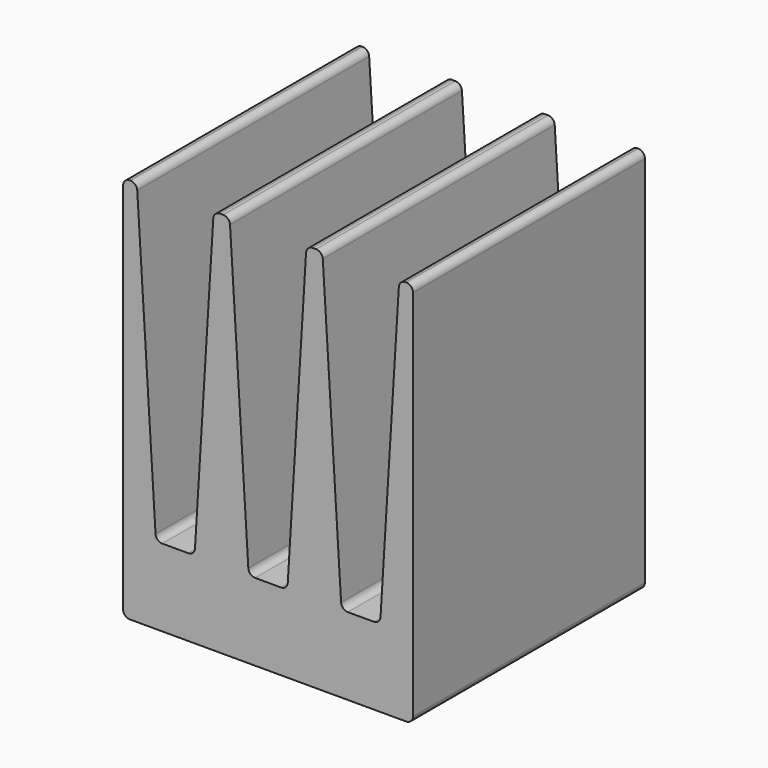
from build123d import *

# Parameters (mm, degrees)
SKETCH_W               = 7.5
SKETCH_H               = 7.5
PAD_DEPTH              = 10
POCKET_DEPTH           = 7.501
LINEARPATTERN_COUNT    = 2
LINEARPATTERN_PITCH    = 2.4
LINEARPATTERN001_COUNT = 2
LINEARPATTERN001_PITCH = 2.4
FILLET_R               = 0.175


with BuildPart() as part:
    # Sketch → Pad (new body)
    with BuildSketch(Plane.XY):
        Rectangle(SKETCH_W, SKETCH_H)
    extrude(amount=PAD_DEPTH)

    # Sketch001 (on Face2 of Pad) → Pocket (cut, through all)
    with BuildSketch(Plane.XZ.offset(3.75)):
        Polygon((-1, 10.1), (0, 10.1), (1, 10.1), (0.5, 2), (0, 2), (-0.5, 2), align=None)
    pocket = extrude(amount=-POCKET_DEPTH, mode=Mode.SUBTRACT)

    # LinearPattern: Pocket ×2
    with Locations(*[(i * LINEARPATTERN_PITCH, 0, 0) for i in range(1, LINEARPATTERN_COUNT)]):
        add(pocket, mode=Mode.SUBTRACT)

    # LinearPattern001: Pocket ×2
    with Locations(*[(-i * LINEARPATTERN001_PITCH, 0, 0) for i in range(1, LINEARPATTERN001_COUNT)]):
        add(pocket, mode=Mode.SUBTRACT)

    # Fillet
    fillet_edges = [part.edges().sort_by_distance(p)[0] for p in [
        (-3.75, 0, 10),
        (-3.393827, 0, 10),
        (-1.406173, 0, 10),
        (-0.993827, 0, 10),
        (0.993827, 0, 10),
        (1.406173, 0, 10),
        (3.393827, 0, 10),
        (3.75, 0, 10),
        (-2.9, 0, 2),
        (-0.5, 0, 2),
        (1.9, 0, 2),
        (3.75, 0, 0),
        (-3.75, 0, 0),
        (-1.9, 0, 2),
        (0.5, 0, 2),
        (2.9, 0, 2),
    ]]
    fillet(fillet_edges, radius=FILLET_R)


solid = part.part
